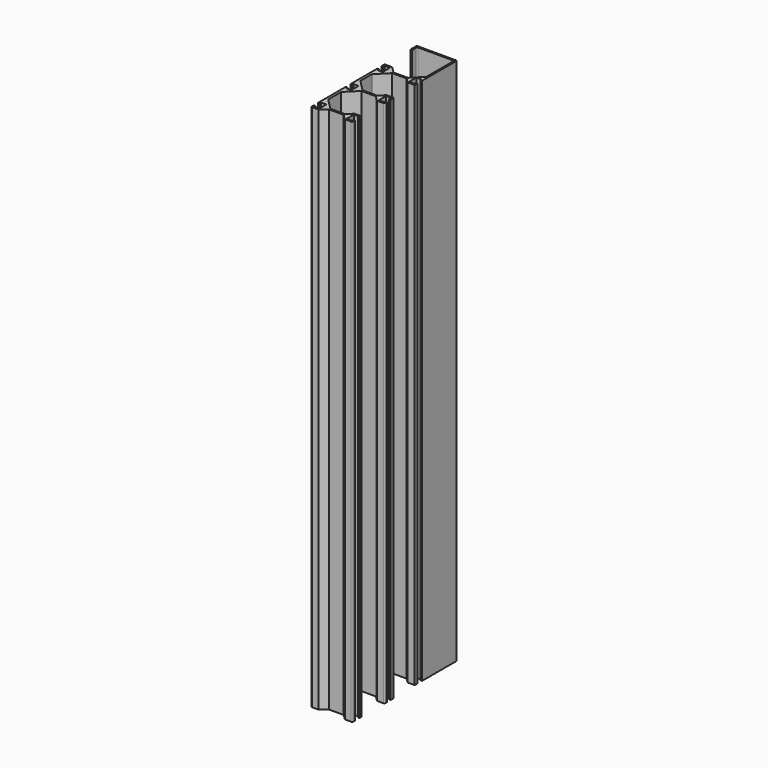
from build123d import *

# Parameters (mm, degrees)
F1_DEPTH = 1000


with BuildPart() as f1:
    # F0 (on Top) → F1 (new body)
    with BuildSketch(Plane.XY):
        with BuildLine():
            Line((0, 8.917465), (0, 3.75))
            Line((0, 3.75), (3, 3.75))
            Line((3, 3.75), (3, 7))
            Line((3, 7), (13, 7))
            Line((13, 7), (13, -10))
            Line((13, -10), (3, -10))
            Line((3, -10), (3, -6.75))
            Line((3, -6.75), (0, -6.75))
            Line((0, -6.75), (0, -70.421975))
            Line((0, -70.421975), (3, -70.421975))
            Line((3, -70.421975), (3, -67.171975))
            Line((3, -67.171975), (13, -67.171975))
            Line((13, -67.171975), (13, -84.171975))
            Line((13, -84.171975), (3, -84.171975))
            Line((3, -84.171975), (3, -80.921975))
            Line((3, -80.921975), (0, -80.921975))
            Line((0, -80.921975), (0, -146.421568))
            Line((0, -146.421568), (3, -146.421568))
            Line((3, -146.421568), (3, -143.171568))
            Line((3, -143.171568), (13, -143.171568))
            Line((13, -143.171568), (13, -160.171568))
            Line((13, -160.171568), (3, -160.171568))
            Line((3, -160.171568), (3, -156.921568))
            Line((3, -156.921568), (0, -156.921568))
            Line((0, -156.921568), (0, -161.171568))
            ThreePointArc((0, -161.171568), (0.585786, -162.585782), (2, -163.171568))
            Line((2, -163.171568), (14.213203, -163.171568))
            Line((14.213203, -163.171568), (26.213203, -153.171568))
            Line((26.213203, -153.171568), (52.958573, -153.171568))
            ThreePointArc((52.958573, -153.171568), (53.72394, -153.323809), (54.372786, -153.757355))
            Line((54.372786, -153.757355), (63.201214, -162.585782))
            ThreePointArc((63.201214, -162.585782), (63.85006, -163.019327), (64.615427, -163.171568))
            Line((64.615427, -163.171568), (76, -163.171568))
            ThreePointArc((76, -163.171568), (77.414214, -162.585782), (78, -161.171568))
            Line((78, -161.171568), (78, -156.921568))
            Line((78, -156.921568), (75, -156.921568))
            Line((75, -156.921568), (75, -160.171568))
            Line((75, -160.171568), (65, -160.171568))
            Line((65, -160.171568), (65, -143.171568))
            Line((65, -143.171568), (75, -143.171568))
            Line((75, -143.171568), (75, -146.421568))
            Line((75, -146.421568), (78, -146.421568))
            Line((78, -146.421568), (78, -142.171568))
            ThreePointArc((78, -142.171568), (77.414214, -140.757355), (76, -140.171568))
            Line((76, -140.171568), (64.615427, -140.171568))
            ThreePointArc((64.615427, -140.171568), (63.85006, -140.323809), (63.201214, -140.757355))
            Line((63.201214, -140.757355), (54.372786, -149.585782))
            ThreePointArc((54.372786, -149.585782), (53.72394, -150.019327), (52.958573, -150.171568))
            Line((52.958573, -150.171568), (27.041631, -150.171568))
            ThreePointArc((27.041631, -150.171568), (26.276264, -150.019327), (25.627417, -149.585782))
            Line((25.627417, -149.585782), (5.585786, -129.544151))
            ThreePointArc((5.585786, -129.544151), (5.152241, -128.895305), (5, -128.129938))
            Line((5, -128.129938), (5, -99.213743))
            ThreePointArc((5, -99.213743), (5.152241, -98.448376), (5.585786, -97.79953))
            Line((5.585786, -97.79953), (26.203506, -77.18181))
            ThreePointArc((26.203506, -77.18181), (26.208346, -77.176986), (26.213203, -77.172179))
            Line((26.213203, -77.172179), (52.958776, -77.172179))
            ThreePointArc((52.958776, -77.172179), (53.724143, -77.32442), (54.37299, -77.757965))
            Line((54.37299, -77.757965), (63.201214, -86.586189))
            ThreePointArc((63.201214, -86.586189), (63.85006, -87.019734), (64.615427, -87.171975))
            Line((64.615427, -87.171975), (76, -87.171975))
            ThreePointArc((76, -87.171975), (77.414214, -86.586189), (78, -85.171975))
            Line((78, -85.171975), (78, -80.921975))
            Line((78, -80.921975), (75, -80.921975))
            Line((75, -80.921975), (75, -84.171975))
            Line((75, -84.171975), (65, -84.171975))
            Line((65, -84.171975), (65, -67.171975))
            Line((65, -67.171975), (75, -67.171975))
            Line((75, -67.171975), (75, -72.212282))
            Line((75, -72.212282), (78, -72.212282))
            Line((78, -72.212282), (78, -66.171975))
            ThreePointArc((78, -66.171975), (77.414214, -64.757762), (76, -64.171975))
            Line((76, -64.171975), (64.615427, -64.171975))
            ThreePointArc((64.615427, -64.171975), (63.85006, -64.324216), (63.201214, -64.757762))
            Line((63.201214, -64.757762), (54.37299, -73.585985))
            ThreePointArc((54.37299, -73.585985), (53.724143, -74.019531), (52.958776, -74.171772))
            Line((52.958776, -74.171772), (27.462442, -74.171772))
            ThreePointArc((27.462442, -74.171772), (26.485926, -74.127537), (25.647012, -73.625777))
            Line((25.647012, -73.625777), (5.585068, -53.543433))
            ThreePointArc((5.585068, -53.543433), (5.152047, -52.894835), (5, -52.129938))
            Line((5, -52.129938), (5, -26.213199))
            ThreePointArc((5, -26.213199), (5.152241, -25.447832), (5.585786, -24.798985))
            Line((5.585786, -24.798985), (26.213203, -4.171772))
            Line((26.213203, -4.171772), (53.787203, -4.171772))
            Line((53.787203, -4.171772), (62.615432, -13))
            Line((62.615432, -13), (76, -13))
            Line((76, -13), (76, -6.75))
            Line((76, -6.75), (73, -6.75))
            Line((73, -6.75), (73, -10))
            Line((73, -10), (63, -10))
            Line((63, -10), (63, 7))
            Line((63, 7), (73, 7))
            Line((73, 7), (73, 4.045606))
            Line((73, 4.045606), (76, 4.045606))
            Line((76, 4.045606), (76, 84.828228))
            ThreePointArc((76, 84.828228), (75.414214, 86.242442), (74, 86.828228))
            Line((74, 86.828228), (2, 86.828228))
            ThreePointArc((2, 86.828228), (0.585786, 86.242442), (0, 84.828228))
            Line((0, 84.828228), (0, 71.828228))
            Line((0, 71.828228), (3, 71.828228))
            Line((3, 71.828228), (3, 81.828228))
            ThreePointArc((3, 81.828228), (3.585786, 83.242442), (5, 83.828228))
            Line((5, 83.828228), (71, 83.828228))
            ThreePointArc((71, 83.828228), (72.414214, 83.242442), (73, 81.828228))
            Line((73, 81.828228), (73, 18.869452))
            ThreePointArc((73, 18.869452), (72.847759, 18.104085), (72.414214, 17.455238))
            Line((72.414214, 17.455238), (54.37299, -0.585985))
            ThreePointArc((54.37299, -0.585985), (53.724143, -1.019531), (52.958776, -1.171772))
            Line((52.958776, -1.171772), (27.041631, -1.171772))
            ThreePointArc((27.041631, -1.171772), (26.276264, -1.019531), (25.627417, -0.585985))
            Line((25.627417, -0.585985), (14.709753, 10.331678))
            ThreePointArc((14.709753, 10.331678), (14.060907, 10.765224), (13.29554, 10.917465))
            Line((13.29554, 10.917465), (2, 10.917465))
            ThreePointArc((2, 10.917465), (0.585786, 10.331678), (0, 8.917465))
        make_face()
    extrude(amount=F1_DEPTH)


solid = f1.part
